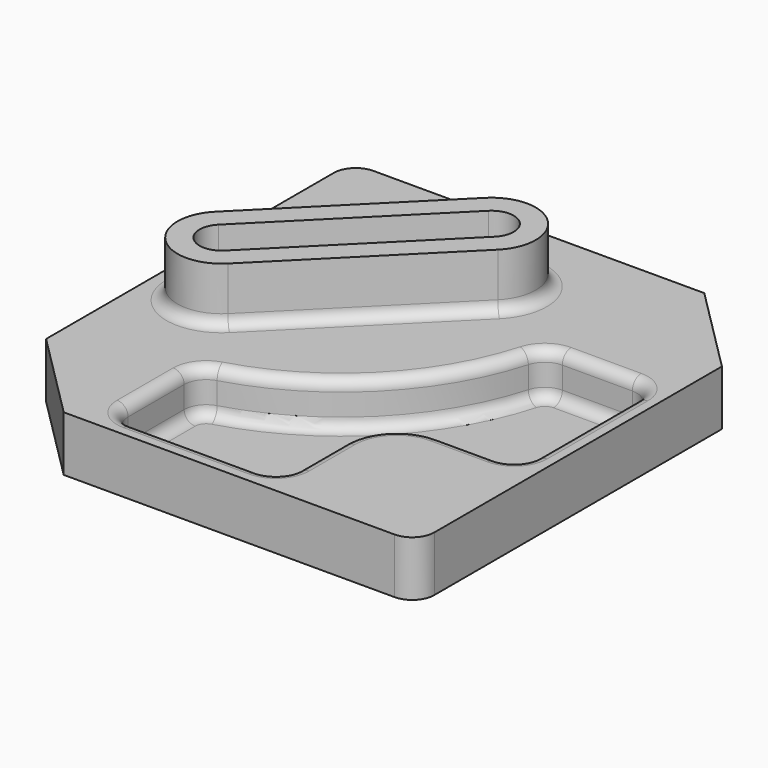
from build123d import *

# Parameters (mm, degrees)
F1_DEPTH = 25
F3_DEPTH = 5
F4_DEPTH = 50
F5_R     = 5


with BuildPart() as f1:
    # F0 (on Top) → F1 (new body)
    with BuildSketch(Plane.XY):
        with BuildLine():
            Line((170, -160), (170, 3))
            Line((170, 3), (130, 43))
            Line((130, 43), (-20, 43))
            ThreePointArc((-20, 43), (-27.0710678119, 40.0710678119), (-30, 33))
            Line((-30, 33), (-30, -130))
            Line((-30, -130), (10, -170))
            Line((10, -170), (160, -170))
            ThreePointArc((160, -170), (167.0710678119, -167.0710678119), (170, -160))
        make_face()
        with BuildLine():
            ThreePointArc((24, -119.2476414861), (26.018165786, -113.2234965193), (31.2580645161, -109.630896205))
            ThreePointArc((31.2580645161, -109.630896205), (80.6101730553, -80.6101730553), (109.630896205, -31.2580645161))
            ThreePointArc((109.630896205, -31.2580645161), (113.2234965193, -26.018165786), (119.2476414861, -24))
            Line((119.2476414861, -24), (151, -24))
            ThreePointArc((151, -24), (158.0710678119, -26.9289321881), (161, -34))
            Line((161, -34), (161, -91))
            ThreePointArc((161, -91), (158.0710678119, -98.0710678119), (151, -101))
            Line((151, -101), (125, -101))
            ThreePointArc((125, -101), (108.0294372515, -108.0294372515), (101, -125))
            Line((101, -125), (101, -151))
            ThreePointArc((101, -151), (98.0710678119, -158.0710678119), (91, -161))
            Line((91, -161), (34, -161))
            ThreePointArc((34, -161), (26.9289321881, -158.0710678119), (24, -151))
            Line((24, -151), (24, -119.2476414861))
        make_face(mode=Mode.SUBTRACT)
        with BuildLine():
            ThreePointArc((53.8578643763, 14.1421356237), (82.1421356237, 14.1421356237), (82.1421356237, -14.1421356237))
            Line((82.1421356237, -14.1421356237), (14.1421356237, -82.1421356237))
            ThreePointArc((14.1421356237, -82.1421356237), (-14.1421356237, -82.1421356237), (-14.1421356237, -53.8578643763))
            Line((-14.1421356237, -53.8578643763), (53.8578643763, 14.1421356237))
        make_face(mode=Mode.SUBTRACT)
    extrude(amount=F1_DEPTH)

    # F2 (on face) → F3 (join)
    with BuildSketch(Plane(origin=(0, 0, 0), x_dir=(1, 0, 0), z_dir=(0, 0, -1))):
        with BuildLine():
            ThreePointArc((34, 161), (26.9289321881, 158.0710678119), (24, 151))
            Line((24, 151), (24, 119.2476414861))
            ThreePointArc((24, 119.2476414861), (26.018165786, 113.2234965193), (31.2580645161, 109.630896205))
            ThreePointArc((31.2580645161, 109.630896205), (80.6101730553, 80.6101730553), (109.630896205, 31.2580645161))
            ThreePointArc((109.630896205, 31.2580645161), (113.2234965193, 26.018165786), (119.2476414861, 24))
            Line((119.2476414861, 24), (151, 24))
            ThreePointArc((151, 24), (158.0710678119, 26.9289321881), (161, 34))
            Line((161, 34), (161, 91))
            ThreePointArc((161, 91), (158.0710678119, 98.0710678119), (151, 101))
            Line((151, 101), (125, 101))
            ThreePointArc((125, 101), (108.0294372515, 108.0294372515), (101, 125))
            Line((101, 125), (101, 151))
            ThreePointArc((101, 151), (98.0710678119, 158.0710678119), (91, 161))
            Line((91, 161), (34, 161))
        make_face()
    extrude(amount=-F3_DEPTH)

    # F2 (on face) → F4 (join)
    with BuildSketch(Plane(origin=(0, 0, 0), x_dir=(1, 0, 0), z_dir=(0, 0, -1))):
        with BuildLine():
            ThreePointArc((14.1421356237, 82.1421356237), (-14.1421356237, 82.1421356237), (-14.1421356237, 53.8578643763))
            Line((-14.1421356237, 53.8578643763), (53.8578643763, -14.1421356237))
            ThreePointArc((53.8578643763, -14.1421356237), (82.1421356237, -14.1421356237), (82.1421356237, 14.1421356237))
            Line((82.1421356237, 14.1421356237), (14.1421356237, 82.1421356237))
        make_face()
        with BuildLine():
            Line((60.9289321881, -7.0710678119), (-7.0710678119, 60.9289321881))
            ThreePointArc((-7.0710678119, 60.9289321881), (-7.0710678119, 75.0710678119), (7.0710678119, 75.0710678119))
            Line((7.0710678119, 75.0710678119), (75.0710678119, 7.0710678119))
            ThreePointArc((75.0710678119, 7.0710678119), (75.0710678119, -7.0710678119), (60.9289321881, -7.0710678119))
        make_face(mode=Mode.SUBTRACT)
    extrude(amount=-F4_DEPTH)

    # F5
    f5_edges = [f1.edges().sort_by_distance(p)[0] for p in [
        (19.857864, -19.857864, 25),
        (26.928932, -158.071068, 5),
        (24, -135.123821, 5),
        (26.018166, -113.223497, 5),
        (80.610173, -80.610173, 5),
        (113.223497, -26.018166, 5),
        (135.123821, -24, 5),
        (158.071068, -26.928932, 5),
        (161, -62.5, 5),
        (158.071068, -98.071068, 5),
        (138, -101, 5),
        (108.029437, -108.029437, 5),
        (101, -138, 5),
        (98.071068, -158.071068, 5),
        (62.5, -161, 5),
        (108.029437, -108.029437, 25),
    ]]
    fillet(f5_edges, radius=F5_R)


solid = f1.part
